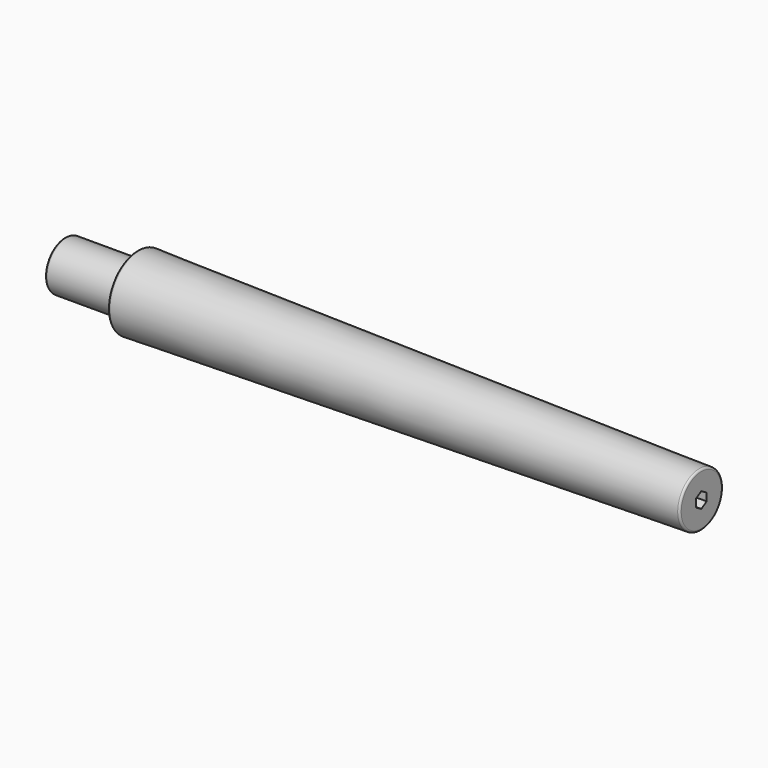
from build123d import *

# Parameters (mm, degrees)
F0_W     = 59.7408
F0_H     = 31.75
F3_DEPTH = 821.767453
F4_R     = 2.54


with BuildPart() as f1:
    # F0 (on Front) → F1 (revolve)
    with BuildSketch(Plane.XZ):
        with Locations((-381.012826, 15.875)):
            Rectangle(F0_W, F0_H)
        Polygon((-351.142426, 31.75), (-351.142426, 0), (410.883226, 0), (410.883226, 34.925), (-317.004826, 47.625), (-317.004826, 31.75), align=None)
    revolve(axis=Axis((0, 0, 0), (1, 0, 0)))

    # F2 (on face) → F3 (cut, through all)
    with BuildSketch(Plane(origin=(-410.883226, 0, 0), x_dir=(0, -1, 0), z_dir=(-1, 0, 0))):
        Polygon((0, 10.081979), (-8.73125, 5.04099), (-8.73125, -5.04099), (0, -10.081979), (8.73125, -5.04099), (8.73125, 5.04099), align=None)
    extrude(amount=-F3_DEPTH, mode=Mode.SUBTRACT)

    # F4
    f4_edges = [f1.edges().sort_by_distance(p)[0] for p in [
        (-317.004826, 0, -47.625),
        (-410.883226, 0, -31.75),
        (410.883226, 0, -34.925),
        (-317.004826, 0, -31.75),
    ]]
    fillet(f4_edges, radius=F4_R)


solid = f1.part
